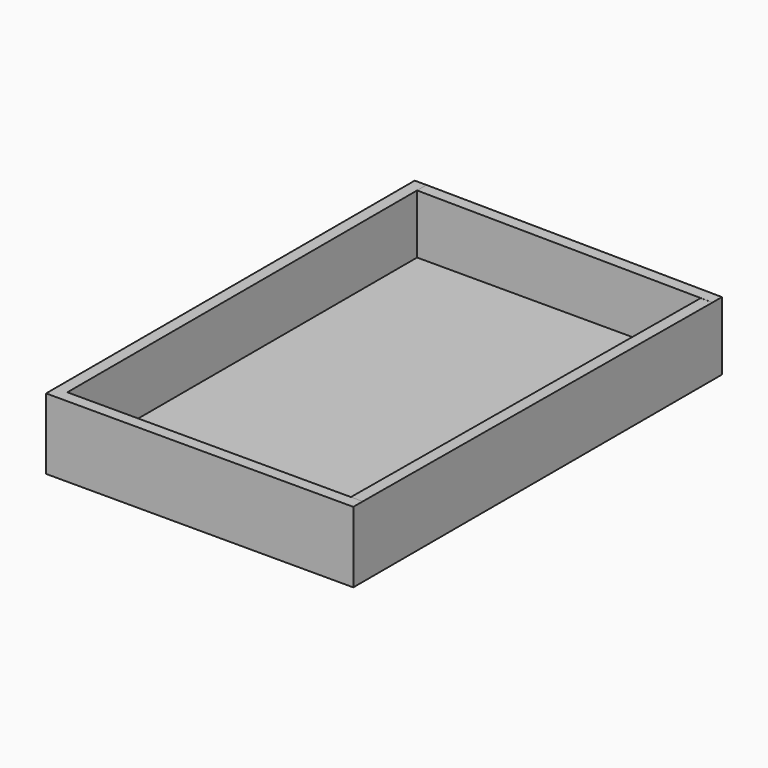
from build123d import *

# Parameters (mm, degrees)
F0_W     = 132.08
F0_H     = 198.12
F1_DEPTH = 5.08
F2_W     = 132.08
F2_H     = 25.4
F3_DEPTH = 5.08
F4_W     = 193.04
F4_H     = 25.4
F5_DEPTH = 5.08
F7_DEPTH = 5.08
F9_DEPTH = 5.08


with BuildPart() as f1:
    # F0 (on Top) → F1 (new body)
    with BuildSketch(Plane.XY):
        with Locations((-10.161369, 9.438567)):
            Rectangle(F0_W, F0_H)
    extrude(amount=F1_DEPTH)

    # F2 (on face) → F3 (join)
    with BuildSketch(Plane.XZ.offset(89.621433)):
        with Locations((-10.161369, 17.78)):
            Rectangle(F2_W, F2_H)
    extrude(amount=-F3_DEPTH)

    # F4 (on face) → F5 (join)
    with BuildSketch(Plane(origin=(-76.201369, 0, 0), x_dir=(0, -1, 0), z_dir=(-1, 0, 0))):
        with Locations((-11.978567, 17.78)):
            Rectangle(F4_W, F4_H)
    extrude(amount=-F5_DEPTH)

    # F6 (on face) → F7 (join)
    with BuildSketch(Plane(origin=(0, 108.498567, 0), x_dir=(-1, 0, 0), z_dir=(0, 1, 0))):
        Polygon((-55.878631, 29.360438), (-55.878631, 5.08), (71.121369, 5.08), (71.121369, 30.48), align=None)
    extrude(amount=-F7_DEPTH)

    # F8 (on face) → F9 (join)
    with BuildSketch(Plane.YZ.offset(55.878631)):
        Polygon((103.418567, 29.360438), (-84.541433, 30.48), (-84.541433, 5.08), (103.418567, 5.08), align=None)
    extrude(amount=-F9_DEPTH)


solid = f1.part
